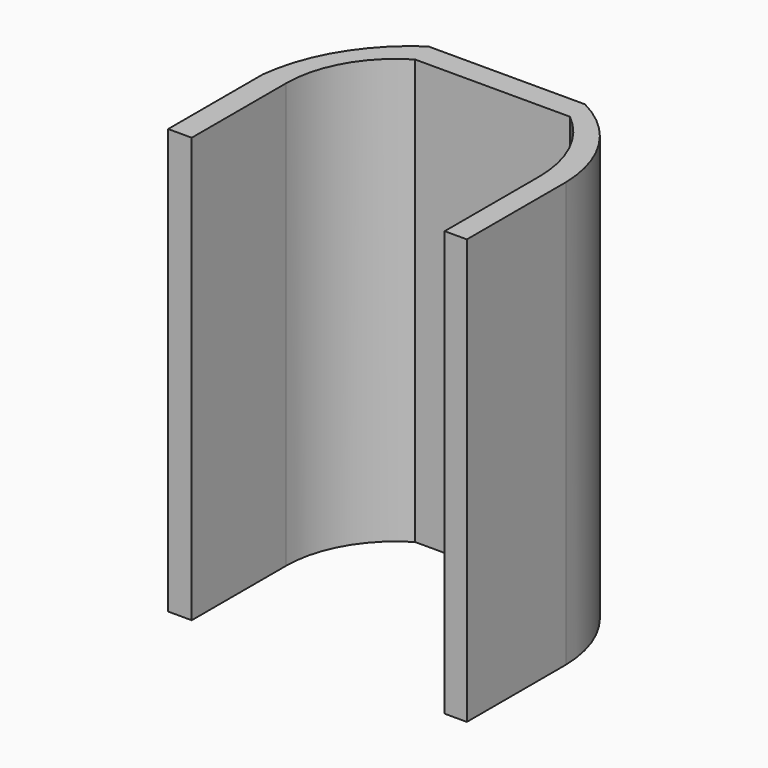
from build123d import *

# Parameters (mm, degrees)
F1_DEPTH = 180


with BuildPart() as f1:
    # F0 (on Top) → F1 (new body)
    with BuildSketch(Plane.XY):
        with BuildLine():
            Line((53.880711, -50), (63.297123, -50))
            Line((63.297123, -50), (63.297123, 0))
            Line((63.297123, 0), (63.297123, 2.555883))
            ThreePointArc((63.297123, 2.555883), (54.874784, 30.426908), (33.319647, 50))
            Line((33.319647, 50), (-33.05907, 50))
            ThreePointArc((-33.05907, 50), (-53.687577, 28.331919), (-63.297123, 0))
            Line((-63.297123, 0), (-63.297123, -50))
            Line((-63.297123, -50), (-53.297123, -50))
            Line((-53.297123, -50), (-53.297123, 0))
            ThreePointArc((-53.297123, 0), (-47.239503, 22.95935), (-30.643604, 39.941771))
            Line((-30.643604, 39.941771), (35.021361, 39.941771))
            ThreePointArc((35.021361, 39.941771), (48.928843, 22.085177), (53.880711, 0))
            Line((53.880711, 0), (53.880711, -50))
        make_face()
    extrude(amount=F1_DEPTH)


solid = f1.part
